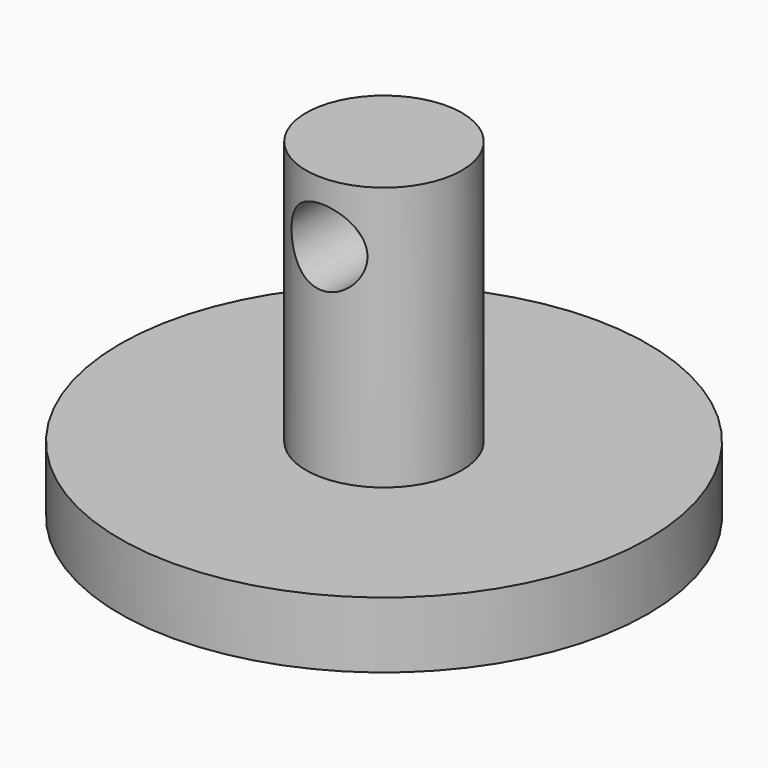
from build123d import *

# Parameters (mm, degrees)
F0_R     = 12.7
F1_DEPTH = 3.175
F2_R     = 3.75
F3_DEPTH = 12.7
F5_DEPTH = 5.08
F6_DEPTH = 25.4


with BuildPart() as f1:
    # F0 (on Top) → F1 (new body)
    with BuildSketch(Plane.XY):
        Circle(F0_R)
    extrude(amount=F1_DEPTH)

    # F2 (on face) → F3 (join)
    with BuildSketch(Plane.XY.offset(3.175)):
        Circle(F2_R)
    extrude(amount=F3_DEPTH)

    # F4 (on Front) → F5 (cut)
    with BuildSketch(Plane.XZ):
        with BuildLine():
            ThreePointArc((1.6361789283, 12.118075807), (1.7781010103, 12.5127154354), (1.8262548359, 12.929324992))
            ThreePointArc((1.8262548359, 12.929324992), (0.4140579041, 14.7080219245), (-1.6385001539, 13.7358756546))
            ThreePointArc((-1.6385001539, 13.7358756546), (0.4142883311, 14.7027274799), (1.8239336103, 12.9246264696))
            ThreePointArc((1.8239336103, 12.9246264696), (1.7763757069, 12.5105685655), (1.6361789283, 12.118075807))
        make_face()
        with BuildLine():
            ThreePointArc((1.8239336103, 12.9246264696), (0.4142883311, 14.7027274799), (-1.6385001539, 13.7358756546))
            ThreePointArc((-1.6385001539, 13.7358756546), (-0.8089007564, 11.2919837656), (1.6361789283, 12.118075807))
            ThreePointArc((1.6361789283, 12.118075807), (1.7763757069, 12.5105685655), (1.8239336103, 12.9246264696))
        make_face()
        with BuildLine():
            ThreePointArc((1.6361789283, 12.118075807), (-0.8089007564, 11.2919837656), (-1.6385001539, 13.7358756546))
            ThreePointArc((-1.6385001539, 13.7358756546), (-0.811221982, 11.2872852432), (1.6361789283, 12.118075807))
        make_face()
    extrude(amount=F5_DEPTH, mode=Mode.SUBTRACT)

    # F4 (on Front) → F6 (cut)
    with BuildSketch(Plane.XZ):
        with BuildLine():
            ThreePointArc((1.6361789283, 12.118075807), (1.7781010103, 12.5127154354), (1.8262548359, 12.929324992))
            ThreePointArc((1.8262548359, 12.929324992), (0.4140579041, 14.7080219245), (-1.6385001539, 13.7358756546))
            ThreePointArc((-1.6385001539, 13.7358756546), (0.4142883311, 14.7027274799), (1.8239336103, 12.9246264696))
            ThreePointArc((1.8239336103, 12.9246264696), (1.7763757069, 12.5105685655), (1.6361789283, 12.118075807))
        make_face()
        with BuildLine():
            ThreePointArc((1.8239336103, 12.9246264696), (0.4142883311, 14.7027274799), (-1.6385001539, 13.7358756546))
            ThreePointArc((-1.6385001539, 13.7358756546), (-0.8089007564, 11.2919837656), (1.6361789283, 12.118075807))
            ThreePointArc((1.6361789283, 12.118075807), (1.7763757069, 12.5105685655), (1.8239336103, 12.9246264696))
        make_face()
        with BuildLine():
            ThreePointArc((1.6361789283, 12.118075807), (-0.8089007564, 11.2919837656), (-1.6385001539, 13.7358756546))
            ThreePointArc((-1.6385001539, 13.7358756546), (-0.811221982, 11.2872852432), (1.6361789283, 12.118075807))
        make_face()
    extrude(amount=-F6_DEPTH, mode=Mode.SUBTRACT)


solid = f1.part
